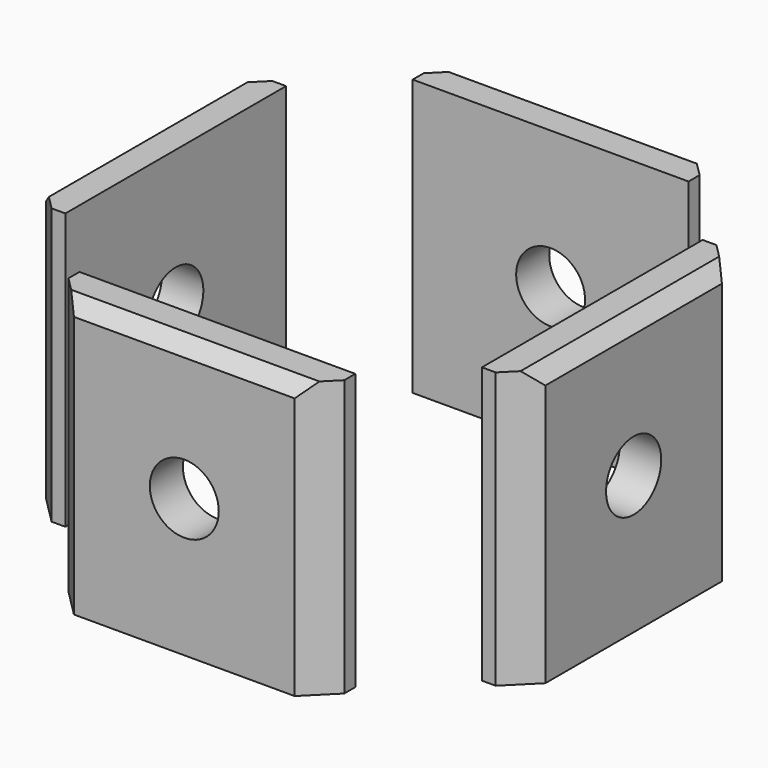
from build123d import *

# Parameters (mm, degrees)
CYLINDER1944_R               = 2.5
CYLINDER1944_DEPTH           = 10
CYLINDER1946_R               = 2.5
CYLINDER1946_DEPTH           = 10
CYLINDER1946_ROLL_ANGLE      = 90
CYLINDER1946_PLACEMENT_ANGLE = 180
CYLINDER1947_R               = 2.5
CYLINDER1947_DEPTH           = 10
CYLINDER1947_ROLL_ANGLE      = 90
CYLINDER1947_PITCH_ANGLE     = 0
CYLINDER1947_PLACEMENT_ANGLE = -90
CYLINDER1945_R               = 2.5
CYLINDER1945_DEPTH           = 10
BOX747_W                     = 20
BOX747_H                     = 3
BOX747_DEPTH                 = 20
BOX746_W                     = 20
BOX746_H                     = 3
BOX746_DEPTH                 = 20
BOX745_W                     = 20
BOX745_H                     = 3
BOX745_DEPTH                 = 20
BOX744_W                     = 20
BOX744_H                     = 3
BOX744_DEPTH                 = 20
CHAMFER075_SIZE              = 2
CHAMFER077_SIZE              = 2
CHAMFER076_SIZE              = 1


with BuildPart() as obj1:
    # Cylinder1944 → Cylinder1944 (new body)
    with BuildSketch(Plane(origin=(12, 0, 30), x_dir=(0, 1, 0), z_dir=(1, 0, 0))):
        Circle(CYLINDER1944_R)
    extrude(amount=CYLINDER1944_DEPTH)


with BuildPart() as obj2:
    # Cylinder1946 → Cylinder1946 (new body)
    with BuildSketch(Plane.XY):
        Circle(CYLINDER1946_R)
    extrude(amount=CYLINDER1946_DEPTH)


with BuildPart() as obj2_1:
    # Cylinder1946 roll: moved
    add(obj2.part.rotate(Axis((0, 0, 0), (1, 0, 0)), CYLINDER1946_ROLL_ANGLE))


with BuildPart() as obj2_2:
    # Cylinder1946 placement: moved
    add(obj2_1.part.moved(Location((0, 12, 30))).rotate(Axis((0, 12, 30), (0, 0, 1)), CYLINDER1946_PLACEMENT_ANGLE))


with BuildPart() as obj3:
    # Cylinder1947 → Cylinder1947 (new body)
    with BuildSketch(Plane.XY):
        Circle(CYLINDER1947_R)
    extrude(amount=CYLINDER1947_DEPTH)


with BuildPart() as obj3_1:
    # Cylinder1947 roll: moved
    add(obj3.part.rotate(Axis((0, 0, 0), (1, 0, 0)), CYLINDER1947_ROLL_ANGLE))


with BuildPart() as obj3_2:
    # Cylinder1947 pitch: moved
    add(obj3_1.part.rotate(Axis((0, 0, 0), (0, 1, 0)), CYLINDER1947_PITCH_ANGLE))


with BuildPart() as obj3_3:
    # Cylinder1947 placement: moved
    add(obj3_2.part.moved(Location((-12, 0, 30))).rotate(Axis((-12, 0, 30), (0, 0, 1)), CYLINDER1947_PLACEMENT_ANGLE))


with BuildPart() as compound921:
    # Cylinder1945 → Cylinder1945 (new body)
    with BuildSketch(Plane(origin=(0, -12, 30), x_dir=(1, 0, 0), z_dir=(0, -1, 0))):
        Circle(CYLINDER1945_R)
    extrude(amount=CYLINDER1945_DEPTH)

    # Compound921: union obj1, obj2, obj3
    add(obj1.part)
    add(obj2_2.part)
    add(obj3_3.part)


with BuildPart() as compound921_1:
    # Compound921 placement: moved
    add(compound921.part.moved(Location((0, 0, -2))))


with BuildPart() as krychle747:
    # Box747 → Box747 (new body)
    with BuildSketch(Plane(origin=(-15.1, -10, 20), x_dir=(0, 1, 0), z_dir=(0, 0, 1))):
        with Locations((10, 1.5)):
            Rectangle(BOX747_W, BOX747_H)
    extrude(amount=BOX747_DEPTH)


with BuildPart() as krychle746:
    # Box746 → Box746 (new body)
    with BuildSketch(Plane(origin=(10, -15.1, 20), x_dir=(-1, 0, 0), z_dir=(0, 0, 1))):
        with Locations((10, 1.5)):
            Rectangle(BOX746_W, BOX746_H)
    extrude(amount=BOX746_DEPTH)


with BuildPart() as krychle745:
    # Box745 → Box745 (new body)
    with BuildSketch(Plane(origin=(15.1, 10, 20), x_dir=(0, -1, 0), z_dir=(0, 0, 1))):
        with Locations((10, 1.5)):
            Rectangle(BOX745_W, BOX745_H)
    extrude(amount=BOX745_DEPTH)


with BuildPart() as chamfer076:
    # Box744 → Box744 (new body)
    with BuildSketch(Plane(origin=(-10, 15.1, 20), x_dir=(1, 0, 0), z_dir=(0, 0, 1))):
        with Locations((10, 1.5)):
            Rectangle(BOX744_W, BOX744_H)
    extrude(amount=BOX744_DEPTH)

    # Compound920: union Krychle747, Krychle746, Krychle745
    add(krychle747.part)
    add(krychle746.part)
    add(krychle745.part)


with BuildPart() as chamfer076_1:
    # Compound920 placement: moved
    add(chamfer076.part.moved(Location((0, 0, -2))))

    # Cut567: cut Compound921
    add(compound921_1.part, mode=Mode.SUBTRACT)

    # Chamfer075
    chamfer075_edges = [chamfer076_1.edges().sort_by_distance(p)[0] for p in [
        (-10, 18.1, 28),
        (10, 18.1, 28),
        (-18.1, -10, 28),
        (-18.1, 10, 28),
        (-10, -18.1, 28),
    ]]
    chamfer(chamfer075_edges, length=CHAMFER075_SIZE)

    # Chamfer077
    chamfer077_edges = [chamfer076_1.edges().sort_by_distance(p)[0] for p in [
        (10, -18.1, 28),
        (18.1, 10, 28),
        (18.1, -10, 28),
    ]]
    chamfer(chamfer077_edges, length=CHAMFER077_SIZE)

    # Chamfer076
    chamfer076_edges = [chamfer076_1.edges().sort_by_distance(p)[0] for p in [
        (0, -18.1, 38),
        (18.1, 0, 38),
        (0, 18.1, 38),
        (-18.1, 0, 38),
    ]]
    chamfer(chamfer076_edges, length=CHAMFER076_SIZE)


with BuildPart() as chamfer076_2:
    # Chamfer076 placement: moved
    add(chamfer076_1.part.moved(Location((0, 0, -14))))


solid = chamfer076_2.part
